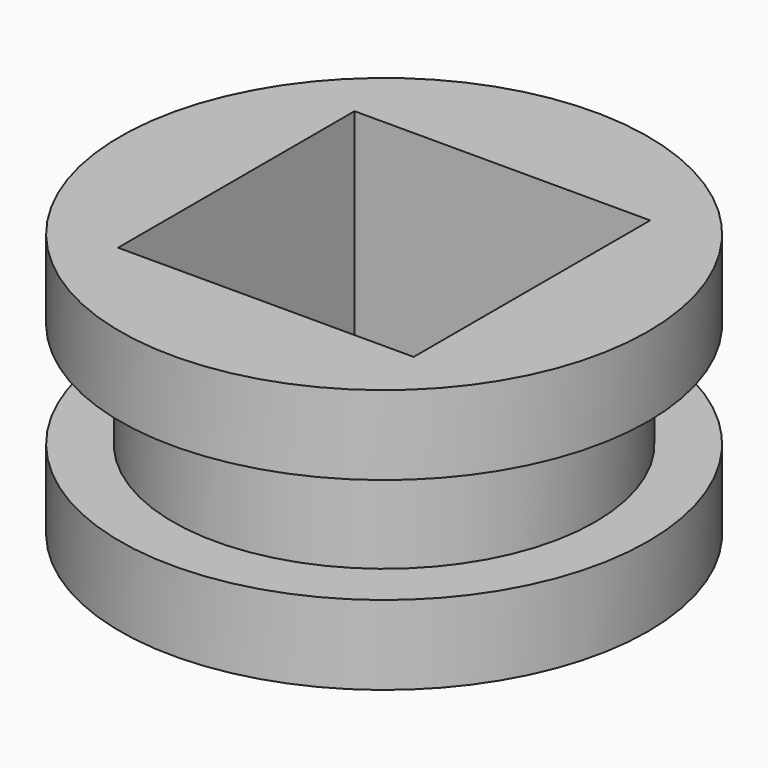
from build123d import *

# Parameters (mm, degrees)
F2_W     = 7.112
F2_H     = 7.112
F3_DEPTH = 25.4


with BuildPart() as f1:
    # F0 (on Front) → F1 (revolve)
    with BuildSketch(Plane.XZ):
        Polygon((0, 6.35), (0, 0), (6.35, 0), (6.35, 1.905), (5.08, 1.905), (5.08, 4.445), (6.35, 4.445), (6.35, 6.35), align=None)
    revolve(axis=Axis((0, 0, 3.175), (0, 0, 1)))

    # F2 (on face) → F3 (cut)
    with BuildSketch(Plane(origin=(0, 0, 0), x_dir=(1, 0, 0), z_dir=(0, 0, -1))):
        Rectangle(F2_W, F2_H)
    extrude(amount=-F3_DEPTH, mode=Mode.SUBTRACT)


solid = f1.part
